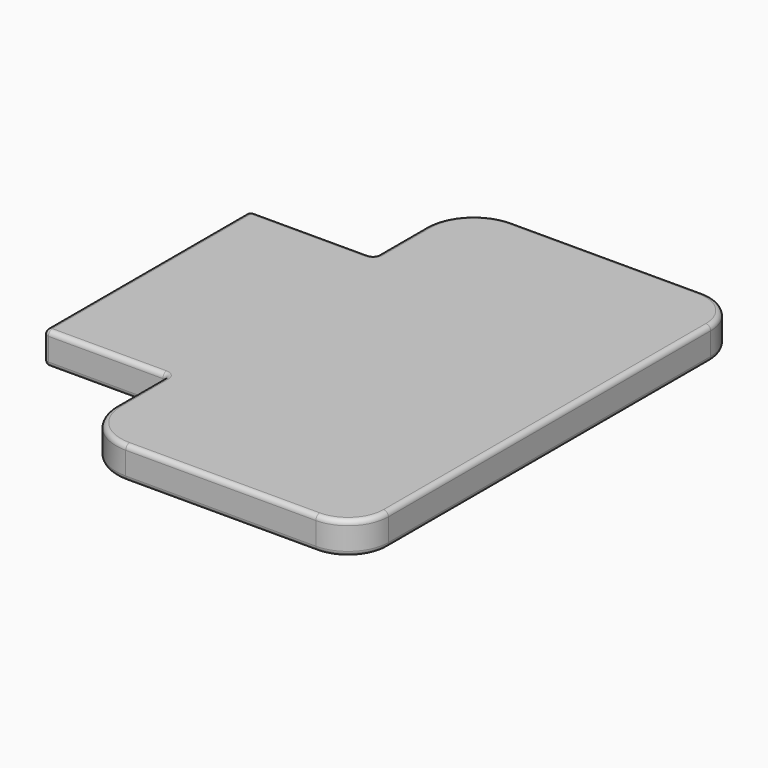
from build123d import *

# Parameters (mm, degrees)
F1_DEPTH = 20
F3_DEPTH = 25
F4_R     = 30
F5_R     = 3
F6_R     = 3


with BuildPart() as f1:
    # F0 (on Top) → F1 (new body)
    with BuildSketch(Plane.XY):
        with BuildLine():
            Line((-100, -150), (100, -150))
            ThreePointArc((100, -150), (117.67767, -142.67767), (125, -125))
            Line((125, -125), (125, 125))
            ThreePointArc((125, 125), (117.67767, 142.67767), (100, 150))
            Line((100, 150), (-100, 150))
            ThreePointArc((-100, 150), (-117.67767, 142.67767), (-125, 125))
            Line((-125, 125), (-125, -125))
            ThreePointArc((-125, -125), (-117.67767, -142.67767), (-100, -150))
        make_face()
    extrude(amount=F1_DEPTH)

    # F2 (on face) → F3 (cut)
    with BuildSketch(Plane.XY.offset(20)):
        with BuildLine():
            Line((-48, -80), (-125, -80))
            Line((-125, -80), (-125, -125))
            ThreePointArc((-125, -125), (-117.67767, -142.67767), (-100, -150))
            Line((-100, -150), (-48, -150))
            Line((-48, -150), (-48, -80))
        make_face()
        with BuildLine():
            Line((-125, -80), (-146.106765, -80))
            Line((-146.106765, -80), (-146.106765, -176.229358))
            Line((-146.106765, -176.229358), (-48, -176.229358))
            Line((-48, -176.229358), (-48, -150))
            Line((-48, -150), (-100, -150))
            ThreePointArc((-100, -150), (-117.67767, -142.67767), (-125, -125))
            Line((-125, -125), (-125, -80))
        make_face()
        with BuildLine():
            Line((-146.106765, 80), (-125, 80))
            Line((-125, 80), (-125, 125))
            ThreePointArc((-125, 125), (-117.67767, 142.67767), (-100, 150))
            Line((-100, 150), (-48, 150))
            Line((-48, 150), (-48, 176.229358))
            Line((-48, 176.229358), (-146.106765, 176.229358))
            Line((-146.106765, 176.229358), (-146.106765, 80))
        make_face()
        with BuildLine():
            Line((-125, 125), (-125, 80))
            Line((-125, 80), (-48, 80))
            Line((-48, 80), (-48, 150))
            Line((-48, 150), (-100, 150))
            ThreePointArc((-100, 150), (-117.67767, 142.67767), (-125, 125))
        make_face()
    extrude(amount=-F3_DEPTH, mode=Mode.SUBTRACT)

    # F4
    f4_edges = [f1.edges().sort_by_distance(p)[0] for p in [
        (-48, -150, 10),
        (-48, 150, 10),
    ]]
    fillet(f4_edges, radius=F4_R)

    # F5
    f5_edges = [f1.edges().sort_by_distance(p)[0] for p in [
        (-48, 80, 10),
        (-125, 80, 10),
        (-48, -80, 10),
        (-125, -80, 10),
    ]]
    fillet(f5_edges, radius=F5_R)

    # F6
    f6_edges = [f1.edges().sort_by_distance(p)[0] for p in [
        (-48, 101.5, 20),
        (-48.87868, 80.87868, 20),
        (-39.213203, 141.213203, 20),
        (-86.5, 80, 20),
        (41, 150, 20),
        (-124.12132, 79.12132, 20),
        (117.67767, 142.67767, 20),
        (-125, 0, 20),
        (125, 0, 20),
        (-124.12132, -79.12132, 20),
        (117.67767, -142.67767, 20),
        (-86.5, -80, 20),
        (41, -150, 20),
        (-48.87868, -80.87868, 20),
        (-39.213203, -141.213203, 20),
        (-48, -101.5, 20),
        (-48, 101.5, 0),
        (-48.87868, 80.87868, 0),
        (-39.213203, 141.213203, 0),
        (-86.5, 80, 0),
        (41, 150, 0),
        (-124.12132, 79.12132, 0),
        (117.67767, 142.67767, 0),
        (-125, 0, 0),
        (125, 0, 0),
        (-124.12132, -79.12132, 0),
        (117.67767, -142.67767, 0),
        (-86.5, -80, 0),
        (41, -150, 0),
        (-48.87868, -80.87868, 0),
        (-39.213203, -141.213203, 0),
        (-48, -101.5, 0),
    ]]
    fillet(f6_edges, radius=F6_R)


solid = f1.part
